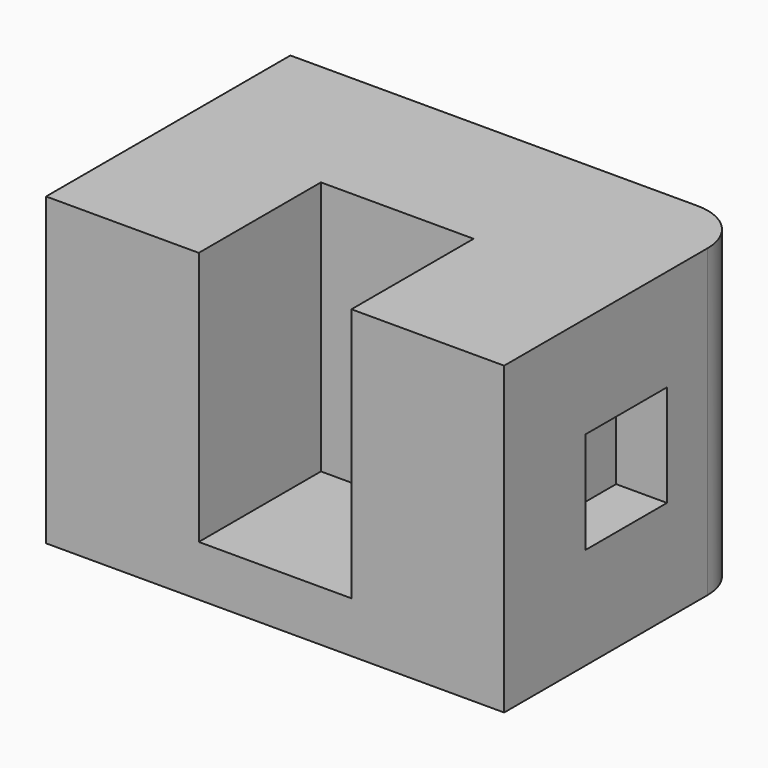
from build123d import *

# Parameters (mm, degrees)
F0_W     = 228.6
F0_H     = 152.4
F1_DEPTH = 152.4
F2_W     = 76.2
F2_H     = 127
F3_DEPTH = 76.2
F4_W     = 50.8
F4_H     = 50.8
F5_DEPTH = 25.4
F6_R     = 25.4


with BuildPart() as f1:
    # F0 (on Front) → F1 (new body)
    with BuildSketch(Plane.XZ):
        with Locations((-37.674306, 76.2)):
            Rectangle(F0_W, F0_H)
    extrude(amount=F1_DEPTH)

    # F2 (on face) → F3 (cut)
    with BuildSketch(Plane.XZ.offset(152.4)):
        with Locations((-37.674306, 88.9)):
            Rectangle(F2_W, F2_H)
    extrude(amount=-F3_DEPTH, mode=Mode.SUBTRACT)

    # F4 (on face) → F5 (cut)
    with BuildSketch(Plane.YZ.offset(76.625694)):
        with Locations((-76.2, 76.2)):
            Rectangle(F4_W, F4_H)
    extrude(amount=-F5_DEPTH, mode=Mode.SUBTRACT)

    # F6
    f6_edges = [f1.edges().sort_by_distance(p)[0] for p in [
        (76.625694, 0, 76.2),
    ]]
    fillet(f6_edges, radius=F6_R)


solid = f1.part
